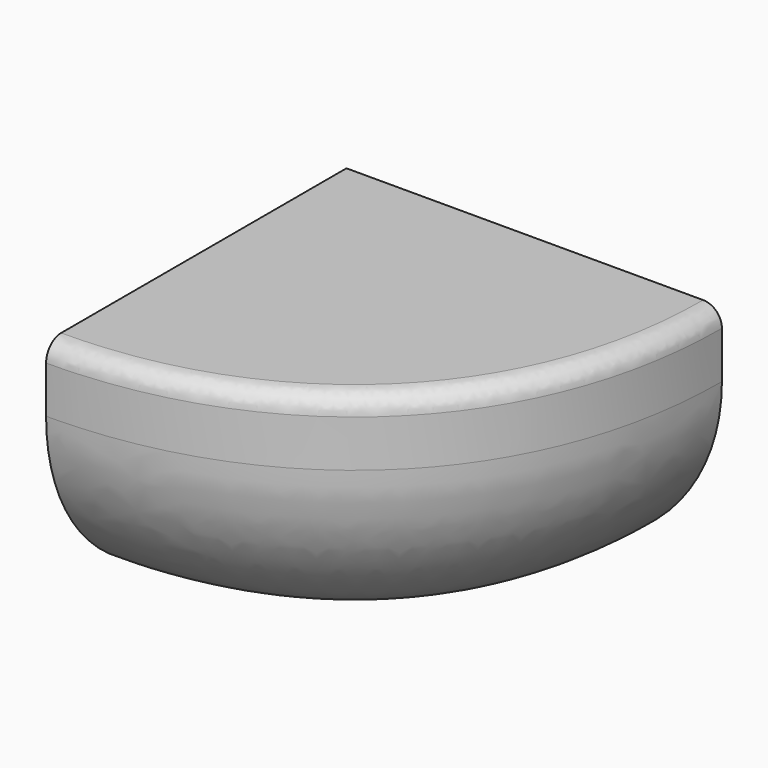
from build123d import *

# Parameters (mm, degrees)
F1_DEPTH = 270
F2_R     = 200
F3_R     = 20


with BuildPart() as f1:
    # F0 (on Top) → F1 (new body)
    with BuildSketch(Plane.XY):
        with BuildLine():
            Line((400, 0), (0, 0))
            Line((0, 0), (0, -400))
            add(Edge.make_bspline(
                [(400, 0), (400, -240), (240, -400), (0, -400)],
                knots=[0, 0, 0, 0, 565.685425, 565.685425, 565.685425, 565.685425], degree=3))
        make_face()
    extrude(amount=-F1_DEPTH)

    # F2
    f2_edges = [f1.edges().sort_by_distance(p)[0] for p in [
        (290, -290, -270),
    ]]
    fillet(f2_edges, radius=F2_R)

    # F3
    f3_edges = [f1.edges().sort_by_distance(p)[0] for p in [
        (290, -290, 0),
    ]]
    fillet(f3_edges, radius=F3_R)


solid = f1.part
